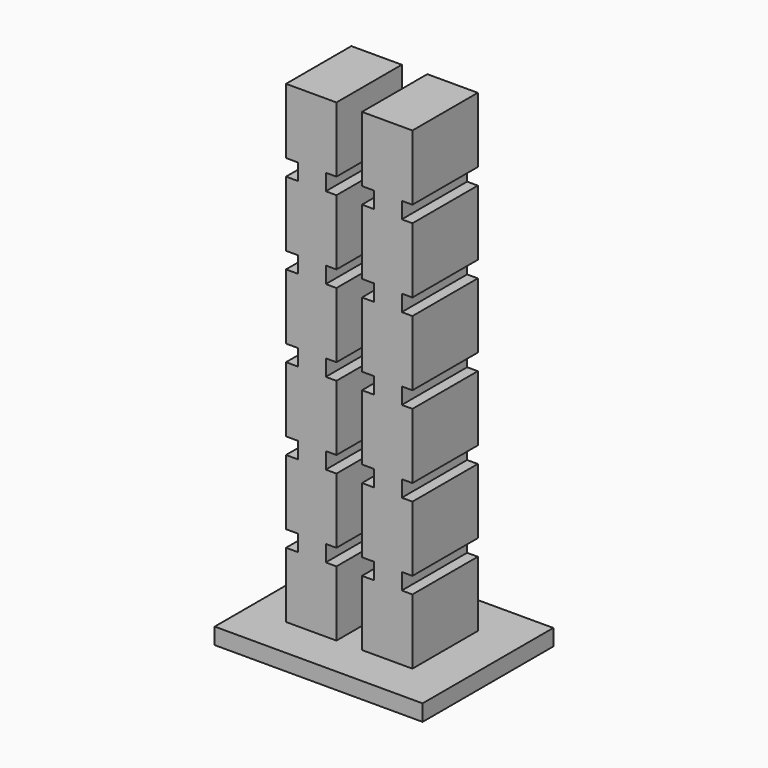
from build123d import *

# Parameters (mm, degrees)
F1_DEPTH = 10
F0_W     = 3.383045
F0_H     = 2
F2_DEPTH = 5


with BuildPart() as f1:
    # F0 (on Front) → F1 (new body, symmetric)
    with BuildSketch(Plane.XZ):
        Polygon((-69.820315, 2), (-69.820315, 0), (-44.373278, 0), (-44.373278, 2), (-49.617426, 2), (-55.793015, 2), (-58.917426, 2), (-65.093015, 2), align=None)
    extrude(amount=F1_DEPTH, both=True)

    # F0 (on Front) → F2 (join, symmetric)
    with BuildSketch(Plane.XZ):
        Polygon((-55.793015, 2), (-49.617426, 2), (-49.617426, 10), (-50.923162, 10), (-54.306207, 10), (-55.793015, 10), align=None)
        Polygon((-65.093015, 10), (-65.093015, 2), (-58.917426, 2), (-58.917426, 10), (-60.223162, 10), (-63.606207, 10), align=None)
        Polygon((-65.093017, 22), (-63.606208, 22), (-60.223163, 22), (-58.917428, 22), (-58.917428, 30), (-60.223164, 30), (-63.606209, 30), (-65.093017, 30), align=None)
        Polygon((-65.093018, 32), (-63.606209, 32), (-60.223164, 32), (-58.917429, 32), (-58.917429, 40), (-60.223165, 40), (-63.60621, 40), (-65.093018, 40), align=None)
        with Locations((-61.914687, 31)):
            Rectangle(F0_W, F0_H)
        with Locations((-52.614688, 51)):
            Rectangle(F0_W, F0_H)
        with Locations((-61.914685, 21)):
            Rectangle(F0_W, F0_H)
        with Locations((-52.614684, 11)):
            Rectangle(F0_W, F0_H)
        Polygon((-54.30621, 42), (-50.923165, 42), (-49.61743, 42), (-49.61743, 50), (-50.923166, 50), (-54.306211, 50), (-55.793019, 50), (-55.793019, 42), align=None)
        Polygon((-65.093019, 42), (-63.60621, 42), (-60.223165, 42), (-58.91743, 42), (-58.91743, 50), (-60.223166, 50), (-63.606211, 50), (-65.093019, 50), align=None)
        with Locations((-61.914684, 11)):
            Rectangle(F0_W, F0_H)
        with Locations((-52.614688, 41)):
            Rectangle(F0_W, F0_H)
        Polygon((-54.306209, 32), (-50.923164, 32), (-49.617429, 32), (-49.617429, 40), (-50.923165, 40), (-54.30621, 40), (-55.793018, 40), (-55.793018, 32), align=None)
        Polygon((-54.306207, 12), (-50.923162, 12), (-49.617427, 12), (-49.617427, 20), (-50.923163, 20), (-54.306208, 20), (-55.793016, 20), (-55.793016, 12), align=None)
        Polygon((-54.306208, 22), (-50.923163, 22), (-49.617428, 22), (-49.617428, 30), (-50.923164, 30), (-54.306209, 30), (-55.793017, 30), (-55.793017, 22), align=None)
        with Locations((-52.614686, 31)):
            Rectangle(F0_W, F0_H)
        Polygon((-65.093016, 12), (-63.606207, 12), (-60.223162, 12), (-58.917427, 12), (-58.917427, 20), (-60.223163, 20), (-63.606208, 20), (-65.093016, 20), align=None)
        Polygon((-54.306211, 52), (-50.923166, 52), (-49.617431, 52), (-49.617431, 60), (-50.923167, 60), (-54.306212, 60), (-55.79302, 60), (-55.79302, 52), align=None)
        with Locations((-61.914688, 51)):
            Rectangle(F0_W, F0_H)
        with Locations((-61.914687, 41)):
            Rectangle(F0_W, F0_H)
        with Locations((-52.614685, 21)):
            Rectangle(F0_W, F0_H)
        Polygon((-65.09302, 52), (-63.606211, 52), (-60.223166, 52), (-58.917431, 52), (-58.917431, 60), (-60.223167, 60), (-63.606212, 60), (-65.09302, 60), align=None)
    extrude(amount=F2_DEPTH, both=True)


solid = f1.part
